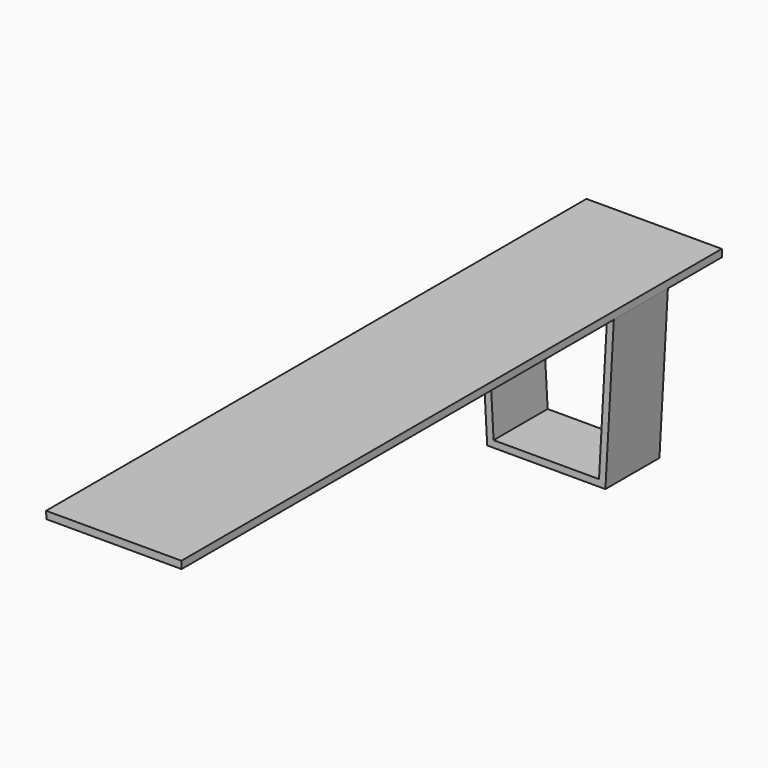
from build123d import *

# Parameters (mm, degrees)
F1_DEPTH = 200
F2_DEPTH = 1800
F3_DEPTH = 200


with BuildPart() as f1:
    # F0 (on Front) → F1 (new body)
    with BuildSketch(Plane.XZ):
        Polygon((-150, 183.772751), (-200, 183.772751), (-175, -266.227249), (175, -266.227249), (200, 183.772751), (150, 183.772751), (84.275194, 173.772751), (-94.773179, 163.772751), align=None)
        Polygon((-156.080271, -246.227249), (-178.858048, 163.772751), (-153.509895, 163.772751), (-97.739527, 143.575909), (86.341696, 153.856998), (151.512791, 163.772751), (178.858048, 163.772751), (156.080271, -246.227249), align=None, mode=Mode.SUBTRACT)
    extrude(amount=F1_DEPTH)

    # F0 (on Front) → F2 (join)
    with BuildSketch(Plane.XZ):
        Polygon((-201.214484, 205.517881), (-200, 183.772751), (-150, 183.772751), (150, 183.772751), (200, 183.772751), (199.590698, 205.517881), align=None)
    extrude(amount=F2_DEPTH)

    # F0 (on Front) → F3 (join)
    with BuildSketch(Plane.XZ):
        Polygon((-201.214484, 205.517881), (-200, 183.772751), (-150, 183.772751), (150, 183.772751), (200, 183.772751), (199.590698, 205.517881), align=None)
    extrude(amount=-F3_DEPTH)


solid = f1.part
